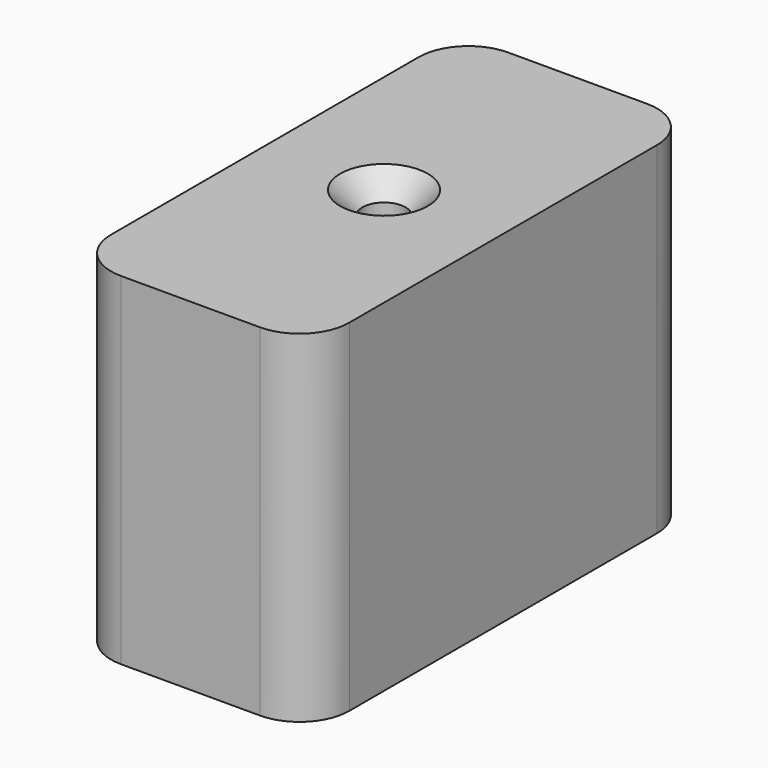
from build123d import *

# Parameters (mm, degrees)
F1_DEPTH       = 43.688
F2_D           = 5.5
F2_CSINK_D     = 11.2
F2_CSINK_ANGLE = 90


with BuildPart() as f1:
    # F0 (on Top) → F1 (new body)
    with BuildSketch(Plane.XY):
        with BuildLine():
            Line((-17.0035926461, 28.0065052211), (-34.7550207913, 28.0065052211))
            ThreePointArc((-34.7550207913, 28.0065052211), (-39.2451488518, 26.1466332817), (-41.1050207913, 21.6565052211))
            Line((-41.1050207913, 21.6565052211), (-41.1050207913, -27.5029422879))
            ThreePointArc((-41.1050207913, -27.5029422879), (-39.2451488518, -31.9930703485), (-34.7550207913, -33.8529422879))
            Line((-34.7550207913, -33.8529422879), (-17.0035926461, -33.8529422879))
            ThreePointArc((-17.0035926461, -33.8529422879), (-12.5134645856, -31.9930703485), (-10.6535926461, -27.5029422879))
            Line((-10.6535926461, -27.5029422879), (-10.6535926461, 21.6565052211))
            ThreePointArc((-10.6535926461, 21.6565052211), (-12.5134645856, 26.1466332817), (-17.0035926461, 28.0065052211))
        make_face()
    extrude(amount=-F1_DEPTH)

    # F2 (through all)
    with Locations(Plane.XY):
        with Locations((-25.8793067187, -2.9232185334)):
            CounterSinkHole(F2_D / 2, F2_CSINK_D / 2, counter_sink_angle=F2_CSINK_ANGLE)


solid = f1.part
